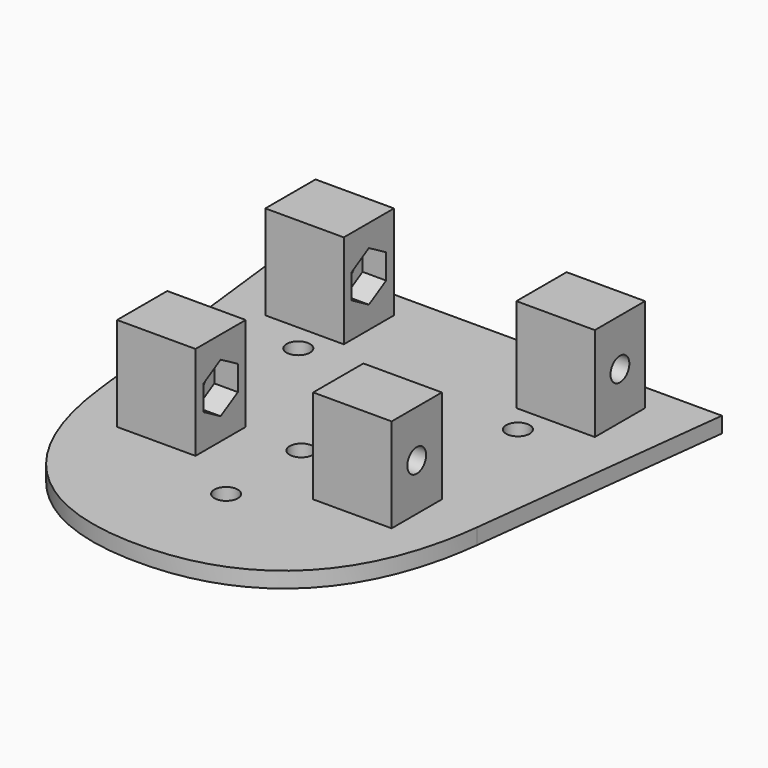
from build123d import *

# Parameters (mm, degrees)
F0_R      = 1.5
F1_DEPTH  = 2
F2_W      = 10
F2_H      = 8
F3_DEPTH  = 12
F4_R      = 1.5
F5_DEPTH  = 10
F6_R      = 1.5
F7_DEPTH  = 10
F9_DEPTH  = 3
F12_DEPTH = 3


with BuildPart() as f1:
    # F0 (on Top) → F1 (new body)
    with BuildSketch(Plane.XY):
        with BuildLine():
            Line((24, -5), (28, 29))
            Line((28, 29), (-28, 29))
            Line((-28, 29), (-24, -5))
            add(Edge.make_bspline(
                [(-24, -5), (-22.3147002161, -19.6341091543), (-14.6526051685, -29), (0, -29)],
                knots=[0, 0, 0, 0, 33.941125497, 33.941125497, 33.941125497, 33.941125497], degree=3))
            add(Edge.make_bspline(
                [(24, -5), (22.3147002161, -19.6341091543), (14.6526051685, -29), (0, -29)],
                knots=[0, 0, 0, 0, 33.941125497, 33.941125497, 33.941125497, 33.941125497], degree=3))
        make_face()
        with Locations((0, -15)):
            Circle(F0_R, mode=Mode.SUBTRACT)
        with Locations((0, -3)):
            Circle(F0_R, mode=Mode.SUBTRACT)
        with Locations((-14, 14)):
            Circle(F0_R, mode=Mode.SUBTRACT)
        with Locations((14, 14)):
            Circle(F0_R, mode=Mode.SUBTRACT)
    extrude(amount=F1_DEPTH)

    # F10: F3 across plane


with BuildPart() as f3:
    # F2 (on face) → F3 (new body)
    with BuildSketch(Plane.XY.offset(2)):
        with Locations((16, 21.5)):
            Rectangle(F2_W, F2_H)
    extrude(amount=F3_DEPTH)

    # F4 (on face) → F5 (cut, through all)
    with BuildSketch(Plane.YZ.offset(21)):
        with Locations((21.5, 8)):
            Circle(F4_R)
    extrude(amount=-F5_DEPTH, mode=Mode.SUBTRACT)

    # F8 (on face) → F9 (cut)
    with BuildSketch(Plane(origin=(11, 0, 0), x_dir=(0, -1, 0), z_dir=(-1, 0, 0))):
        Polygon((-21.5, 4.8245735195), (-18.75, 6.4122867597), (-18.75, 9.5877132403), (-21.5, 11.1754264805), (-24.25, 9.5877132403), (-24.25, 6.4122867597), align=None)
    extrude(amount=-F9_DEPTH, mode=Mode.SUBTRACT)


with BuildPart() as f3b:
    # F2 (on face) → F3, piece 2 (new body)
    with BuildSketch(Plane.XY.offset(2)):
        Polygon((7.5, -10.5), (17.5, -10.5), (17.5, -6.5), (17.5, -2.5), (7.5, -2.5), (7.5, -6.5), align=None)
    extrude(amount=F3_DEPTH)

    # F6 (on face) → F7 (cut, through all)
    with BuildSketch(Plane.YZ.offset(17.5)):
        with Locations((-6.5, 8)):
            Circle(F6_R)
    extrude(amount=-F7_DEPTH, mode=Mode.SUBTRACT)

    # F11 (on face) → F12 (cut)
    with BuildSketch(Plane(origin=(7.5, 0, 0), x_dir=(0, -1, 0), z_dir=(-1, 0, 0))):
        Polygon((9.2500000001, 9.5877132403), (6.5, 11.1754264805), (3.7500000001, 9.5877132402), (3.7500000002, 6.4122867597), (6.5000000002, 4.8245735195), (9.2500000002, 6.4122867598), align=None)
    extrude(amount=-F12_DEPTH, mode=Mode.SUBTRACT)


with BuildPart() as f1_1:
    add(f1.part)
    add(f3.part.mirror(Plane.YZ))


    add(f3.part)  # F13 merges F3

    add(f3b.part)  # F13 merges F3b
    # F13: F3b across plane
    add(f3b.part.mirror(Plane.YZ))


solid = f1_1.part
